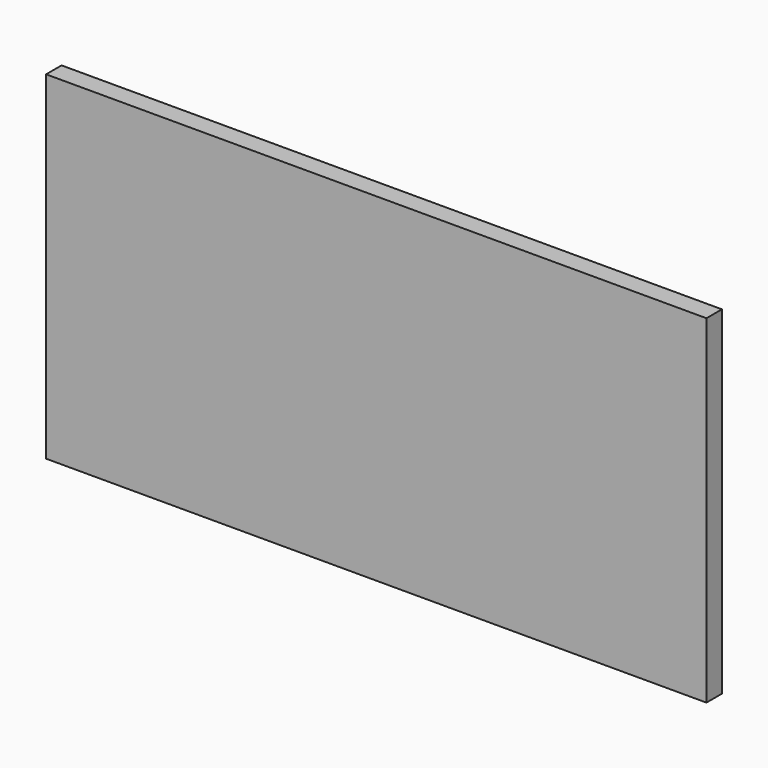
from build123d import *

# Parameters (mm, degrees)
F1_W     = 88.197395
F1_H     = 45.196857
F2_DEPTH = 1.291577


with BuildPart() as f2:
    # F1 (on face) → F2 (new body, symmetric)
    with BuildSketch(Plane.XZ):
        with Locations((-8.490205, 37.351524)):
            Rectangle(F1_W, F1_H)
    extrude(amount=F2_DEPTH, both=True)


solid = f2.part
